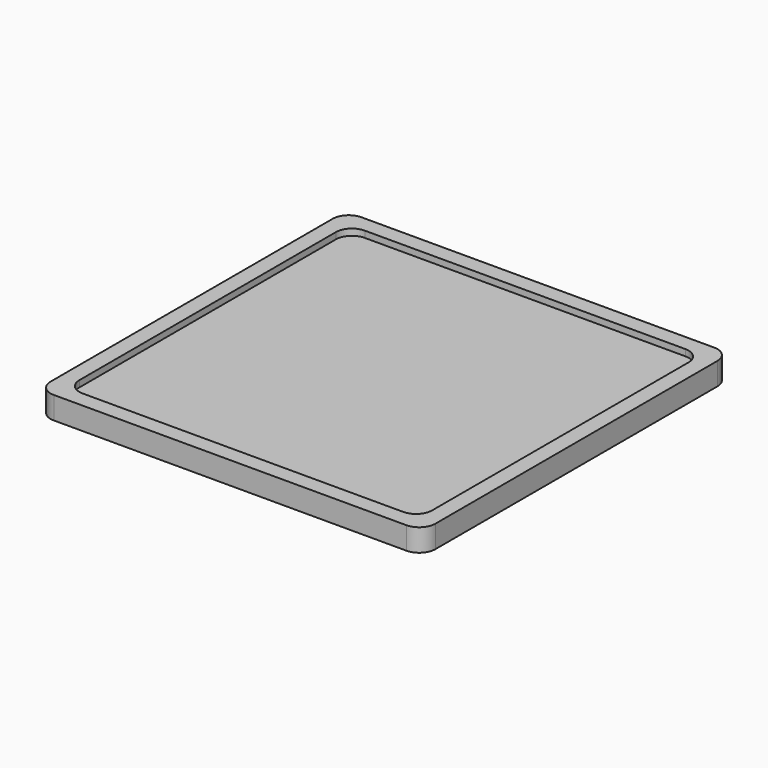
from build123d import *

# Parameters (mm, degrees)
SKETCH003_W   = 12
SKETCH003_H   = 12
SKETCH003_W_2 = 11
SKETCH003_H_2 = 11
PAD002_DEPTH  = 0.7
FILLET001_R   = 0.5
SKETCH004_W   = 11
SKETCH004_H   = 11
PAD_DEPTH     = 0.5
FILLET_R      = 0.5
SKETCH_R      = 1.5
PAD003_DEPTH  = 1.5


with BuildPart() as body01:
    # Sketch003 → Pad002 (new body)
    with BuildSketch(Plane.XY):
        Rectangle(SKETCH003_W, SKETCH003_H)
        Rectangle(SKETCH003_W_2, SKETCH003_H_2, mode=Mode.SUBTRACT)
    extrude(amount=PAD002_DEPTH)

    # Fillet001
    fillet001_edges = [body01.edges().sort_by_distance(p)[0] for p in [
        (6, 6, 0.35),
        (5.5, 5.5, 0.35),
        (-5.5, 5.5, 0.35),
        (-6, 6, 0.35),
        (-5.5, -5.5, 0.35),
        (-6, -6, 0.35),
        (5.5, -5.5, 0.35),
        (6, -6, 0.35),
    ]]
    fillet(fillet001_edges, radius=FILLET001_R)


with BuildPart() as body:
    # Sketch004 → Pad (new body)
    with BuildSketch(Plane.XY):
        Rectangle(SKETCH004_W, SKETCH004_H)
    extrude(amount=PAD_DEPTH)

    # Fillet
    fillet_edges = [body.edges().sort_by_distance(p)[0] for p in [
        (-5.5, 5.5, 0.25),
        (5.5, 5.5, 0.25),
        (5.5, -5.5, 0.25),
        (-5.5, -5.5, 0.25),
    ]]
    fillet(fillet_edges, radius=FILLET_R)

    # Sketch (on Face2 of Fillet) → Pad003 (join)
    with BuildSketch(Plane(origin=(0, 0, 0), x_dir=(1, 0, 0), z_dir=(0, 0, -1))):
        Circle(SKETCH_R)
    extrude(amount=PAD003_DEPTH)


solid = Compound([body01.part, body.part])
